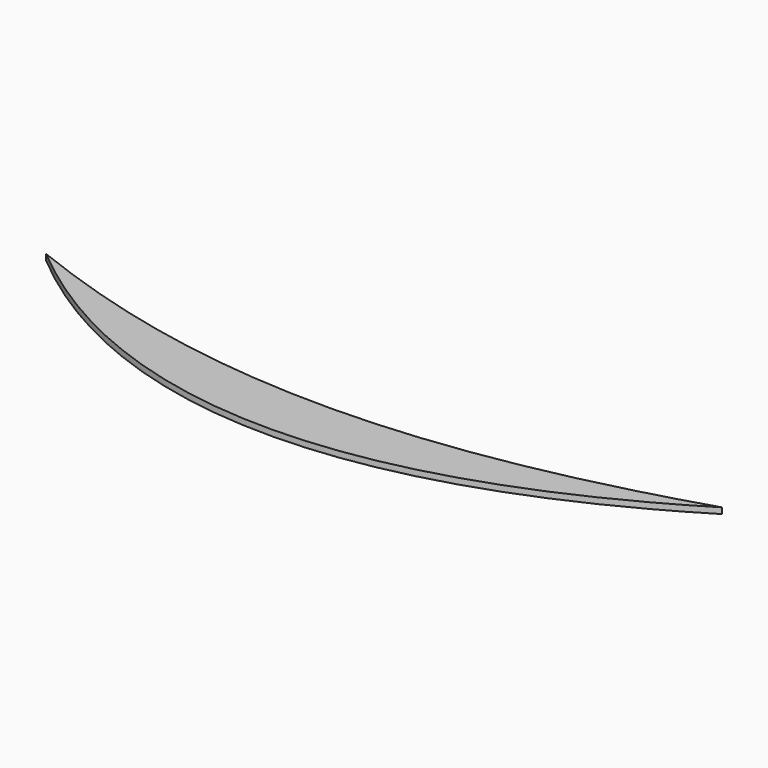
from build123d import *

# Parameters (mm, degrees)
F1_DEPTH = 2.54


with BuildPart() as f1:
    # F0 (on Top) → F1 (new body)
    with BuildSketch(Plane.XY):
        with BuildLine():
            add(Edge.make_bspline(
                [(-137.544841, 36.751308), (-45.317926, 0), (42.644162, 0), (152.996585, 34.618896)],
                knots=[0, 0, 0, 0, 290.549251, 290.549251, 290.549251, 290.549251], degree=3))
            add(Edge.make_bspline(
                [(-137.544841, 36.751308), (-52.781377, -34.684569), (47.975197, -29.886635), (152.996585, 34.618896)],
                knots=[0, 0, 0, 0, 290.549251, 290.549251, 290.549251, 290.549251], degree=3))
        make_face()
    extrude(amount=F1_DEPTH)


solid = f1.part
